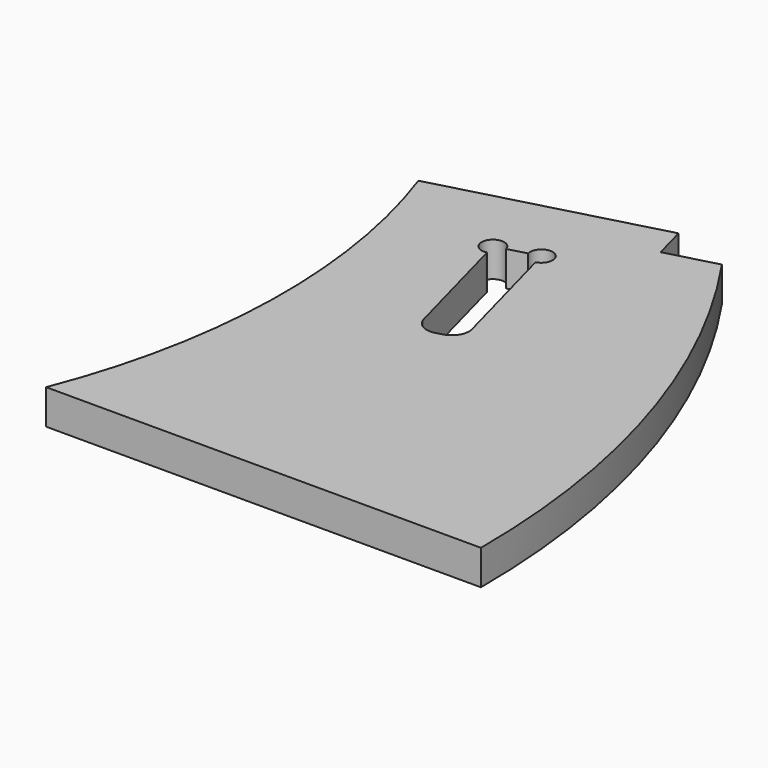
from build123d import *

# Parameters (mm, degrees)
F1_DEPTH = 8
F3_DEPTH = 8.001


with BuildPart() as f1:
    # F0 (on Top) → F1 (new body)
    with BuildSketch(Plane.XY):
        with BuildLine():
            Line((-100, 0), (0, 0))
            ThreePointArc((0, 0), (-10.26334, 63.245553), (-40, 120))
            Line((-40, 120), (-97.95555, 104.470857))
            ThreePointArc((-97.95555, 104.470857), (-89.586881, 52.051653), (-100, 0))
        make_face()
        with BuildLine():
            Line((-57.199474, 60.521777), (-58.648362, 60.133549))
            ThreePointArc((-58.648362, 60.133549), (-61.683639, 60.53315), (-63.547342, 62.961976))
            Line((-63.547342, 62.961976), (-70.794275, 90.007899))
            Line((-70.794275, 90.007899), (-70.897803, 90.394269))
            ThreePointArc((-70.897803, 90.394269), (-73.822398, 94.205677), (-69.059325, 93.578606))
            Line((-69.059325, 93.578606), (-64.905844, 94.691528))
            ThreePointArc((-64.905844, 94.691528), (-62.733805, 97.942214), (-59.794437, 95.364457))
            ThreePointArc((-59.794437, 95.364457), (-60.331718, 93.781678), (-61.721507, 92.85305))
            Line((-61.721507, 92.85305), (-61.61798, 92.46668))
            Line((-61.61798, 92.46668), (-54.371047, 65.420757))
            ThreePointArc((-54.371047, 65.420757), (-54.770648, 62.385481), (-57.199474, 60.521777))
        make_face(mode=Mode.SUBTRACT)
    extrude(amount=F1_DEPTH)

    # F2 (on face) → F3 (cut, through all)
    with BuildSketch(Plane.XY.offset(8)):
        with BuildLine():
            Line((-48.693332, 117.670629), (-46.62278, 109.943222))
            Line((-46.62278, 109.943222), (-35.017939, 113.05273))
            ThreePointArc((-35.017939, 113.05273), (-37.471845, 116.552988), (-40, 120))
            Line((-40, 120), (-48.693332, 117.670629))
        make_face()
    extrude(amount=-F3_DEPTH, mode=Mode.SUBTRACT)


solid = f1.part
